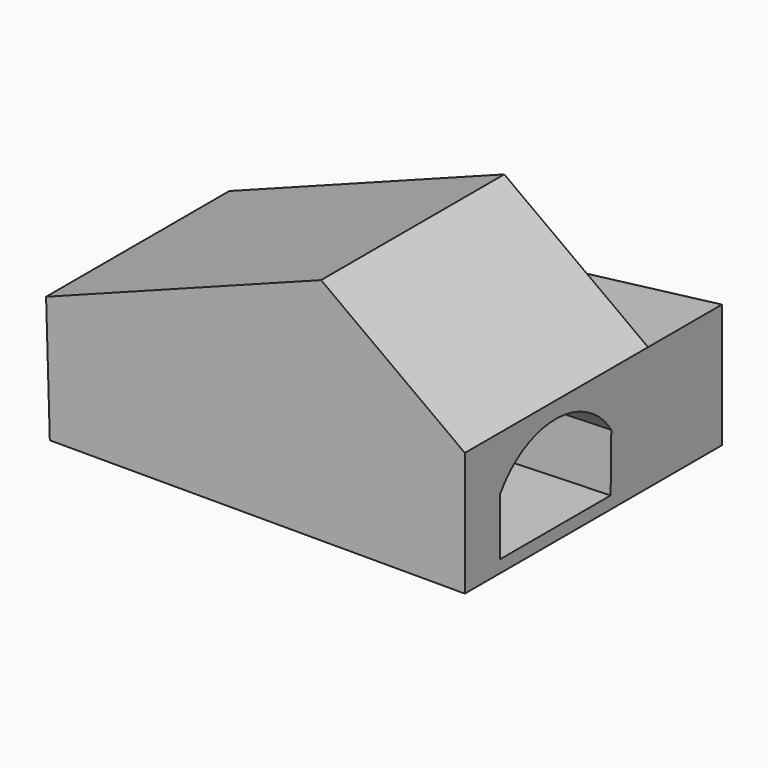
from build123d import *

# Parameters (mm, degrees)
F1_DEPTH = 640
F3_DEPTH = 258
F5_DEPTH = 1440


with BuildPart() as f1:
    # F0 (on Front) → F1 (new body)
    with BuildSketch(Plane.XZ):
        Polygon((-576.332047, -28.611164), (-565.888931, -378.455331), (594.111069, -378.455331), (594.111069, -32.202492), (192.212863, 262.286696), align=None)
    extrude(amount=F1_DEPTH)

    # F2 (on face) → F3 (join)
    with BuildSketch(Plane(origin=(0, 0, 0), x_dir=(-1, 0, 0), z_dir=(0, 1, 0))):
        Polygon((223.529473, -133.722216), (-594.111069, -32.202492), (-594.111069, -378.455331), (223.529473, -378.455331), align=None)
    extrude(amount=F3_DEPTH)

    # F4 (on face) → F5 (cut)
    with BuildSketch(Plane(origin=(-576.672258, 0, -17.214108), x_dir=(0, -1, 0), z_dir=(-0.999555, 0, -0.029837))):
        with BuildLine():
            Line((128.456429, -201.147199), (130.758941, -361.402132))
            Line((130.758941, -361.402132), (517.019868, -361.402132))
            Line((517.019868, -361.402132), (517.019868, -201.147199))
            ThreePointArc((517.019868, -201.147199), (322.738148, -95.409288), (128.456429, -201.147199))
        make_face()
    extrude(amount=-F5_DEPTH, mode=Mode.SUBTRACT)


solid = f1.part
